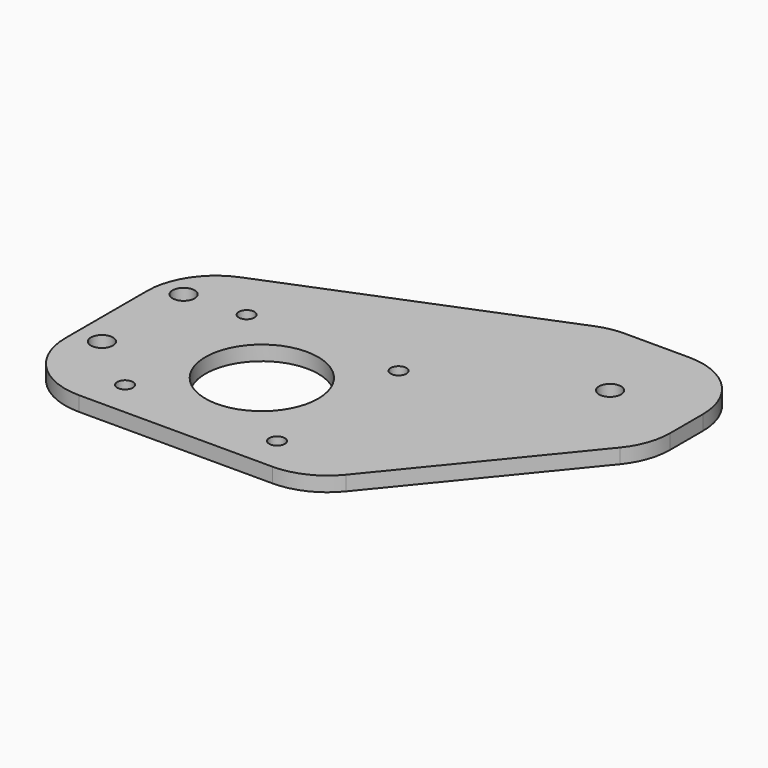
from build123d import *

# Parameters (mm, degrees)
PAD004_DEPTH         = 3
SKETCH004_R          = 2.25
SKETCH004_R_2        = 1.6
SKETCH004_R_3        = 11.5
POCKET002_DEPTH      = 0.001
POCKET002_DEPTH_BACK = 3.001
FILLET001_R          = 14


with BuildPart() as part:
    # Sketch003 → Pad004 (new body)
    with BuildSketch(Plane.XY):
        Polygon((-79.04016, -9.81434), (-79.04016, -54.156483), (-18.88891, -54.156483), (16.695431, -10.559778), (16.695431, 16.776531), (-13.233119, 16.776531), align=None)
    extrude(amount=PAD004_DEPTH)

    # Sketch004 → Pocket002 (cut, two sides)
    with BuildSketch(Plane.XY) as pocket002_sk:
        Circle(SKETCH004_R)
        with Locations((-61.528467, -15.781639)):
            Circle(SKETCH004_R_2)
        with Locations((-30.528467, -15.781639)):
            Circle(SKETCH004_R_2)
        with Locations((-61.528467, -46.781639)):
            Circle(SKETCH004_R_2)
        with Locations((-30.528467, -46.781639)):
            Circle(SKETCH004_R_2)
        with Locations((-46.028467, -31.281639)):
            Circle(SKETCH004_R_3)
        with Locations((-73.757385, -16.564894)):
            Circle(SKETCH004_R)
        with Locations((-73.757385, -37.402451)):
            Circle(SKETCH004_R)
    extrude(amount=-POCKET002_DEPTH, mode=Mode.SUBTRACT)
    extrude(pocket002_sk.sketch, amount=POCKET002_DEPTH_BACK, mode=Mode.SUBTRACT)

    # Fillet001
    fillet001_edges = [part.edges().sort_by_distance(p)[0] for p in [
        (-79.04016, -54.156483, 1.5),
        (-79.04016, -9.81434, 1.5),
        (-18.88891, -54.156483, 1.5),
        (16.695431, -10.559778, 1.5),
        (16.695431, 16.776531, 1.5),
        (-13.233119, 16.776531, 1.5),
    ]]
    fillet(fillet001_edges, radius=FILLET001_R)


with BuildPart() as part_1:
    # Body003 placement: moved
    add(part.part.moved(Location((0, 0, -16.7))))


solid = part_1.part
